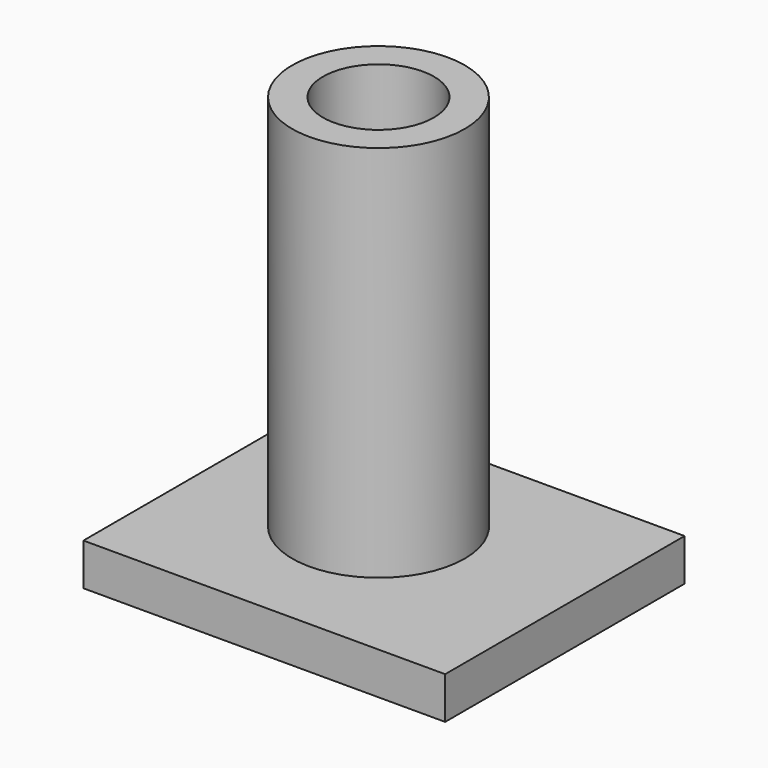
from build123d import *

# Parameters (mm, degrees)
F0_R     = 52.143145
F1_DEPTH = 254
F2_R     = 33.525148
F3_DEPTH = 254.001
F4_W     = 218.61928
F4_H     = 180.868745
F5_DEPTH = 25.4


with BuildPart() as f1:
    # F0 (on Top) → F1 (new body)
    with BuildSketch(Plane.XY):
        with Locations((5.621463, -5.621463)):
            Circle(F0_R)
    extrude(amount=F1_DEPTH)

    # F2 (on face) → F3 (cut, through all)
    with BuildSketch(Plane.XY.offset(254)):
        with Locations((5.621463, -5.621463)):
            Circle(F2_R)
    extrude(amount=-F3_DEPTH, mode=Mode.SUBTRACT)

    # F4 (on Top) → F5 (join)
    with BuildSketch(Plane.XY):
        with Locations((15.006397, -13.178111)):
            Rectangle(F4_W, F4_H)
    extrude(amount=F5_DEPTH)


solid = f1.part
